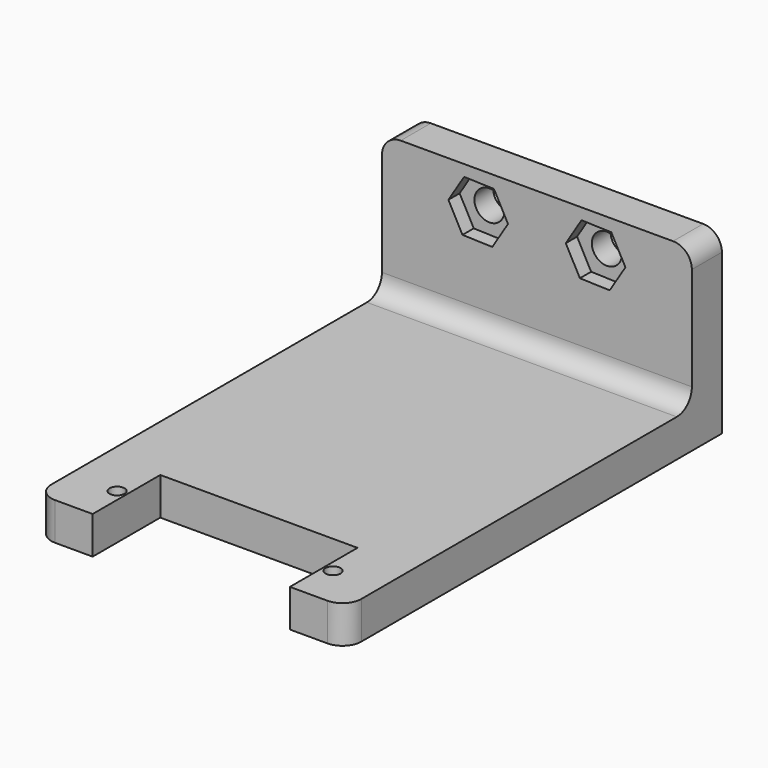
from build123d import *

# Parameters (mm, degrees)
F0_R     = 0.8
F1_DEPTH = 4
F2_W     = 33
F2_H     = 4
F3_DEPTH = 15
F4_R     = 1.6
F5_DEPTH = 25
F6_R     = 1.6
F7_DEPTH = 1.5
F8_R     = 2


with BuildPart() as f1:
    # F0 (on Top) → F1 (new body)
    with BuildSketch(Plane.XY):
        Polygon((-23.5390763283, 54.3011978269), (-44.5390763283, 54.3011978269), (-50.5390763283, 54.3011978269), (-50.5390763283, 4.3011978269), (-44.5390763283, 4.3011978269), (-44.5390763283, 13.3011978269), (-23.5390763283, 13.3011978269), (-23.5390763283, 4.3011978269), (-17.5390763283, 4.3011978269), (-17.5390763283, 54.3011978269), align=None)
        with Locations((-45.5390763283, 8.8011978269)):
            Circle(F0_R, mode=Mode.SUBTRACT)
        with Locations((-22.5390763283, 8.8011978269)):
            Circle(F0_R, mode=Mode.SUBTRACT)
    extrude(amount=F1_DEPTH)

    # F2 (on face) → F3 (join)
    with BuildSketch(Plane.XY.offset(4)):
        with Locations((-34.0390763283, 52.3011978269)):
            Rectangle(F2_W, F2_H)
    extrude(amount=F3_DEPTH)

    # F4 (on face) → F5 (cut)
    with BuildSketch(Plane(origin=(0, 54.3011978269, 0), x_dir=(-1, 0, 0), z_dir=(0, 1, 0))):
        with Locations((40.2890763283, 15)):
            Circle(F4_R)
        with Locations((27.7890763283, 15)):
            Circle(F4_R)
    extrude(amount=-F5_DEPTH, mode=Mode.SUBTRACT)

    # F6 (on face) → F7 (cut)
    with BuildSketch(Plane.XZ.offset(-50.3011978269)):
        Polygon((-38.7884142354, 12.2015456737), (-37.1152127439, 14.9003843318), (-38.6158748368, 17.6988386581), (-41.7897384212, 17.7984543263), (-43.4629399126, 15.0996156682), (-41.9622778197, 12.3011613419), align=None)
        with Locations((-40.2890763283, 15)):
            Circle(F6_R, mode=Mode.SUBTRACT)
        Polygon((-26.2884142354, 12.2015456737), (-24.6152127439, 14.9003843318), (-26.1158748368, 17.6988386581), (-29.2897384212, 17.7984543263), (-30.9629399126, 15.0996156682), (-29.4622778197, 12.3011613419), align=None)
        with Locations((-27.7890763283, 15)):
            Circle(F6_R, mode=Mode.SUBTRACT)
    extrude(amount=-F7_DEPTH, mode=Mode.SUBTRACT)

    # F8
    f8_edges = [f1.edges().sort_by_distance(p)[0] for p in [
        (-50.539076, 4.301198, 2),
        (-17.539076, 4.301198, 2),
        (-17.539076, 52.301198, 19),
        (-50.539076, 52.301198, 19),
        (-34.039076, 50.301198, 4),
    ]]
    fillet(f8_edges, radius=F8_R)


solid = f1.part
